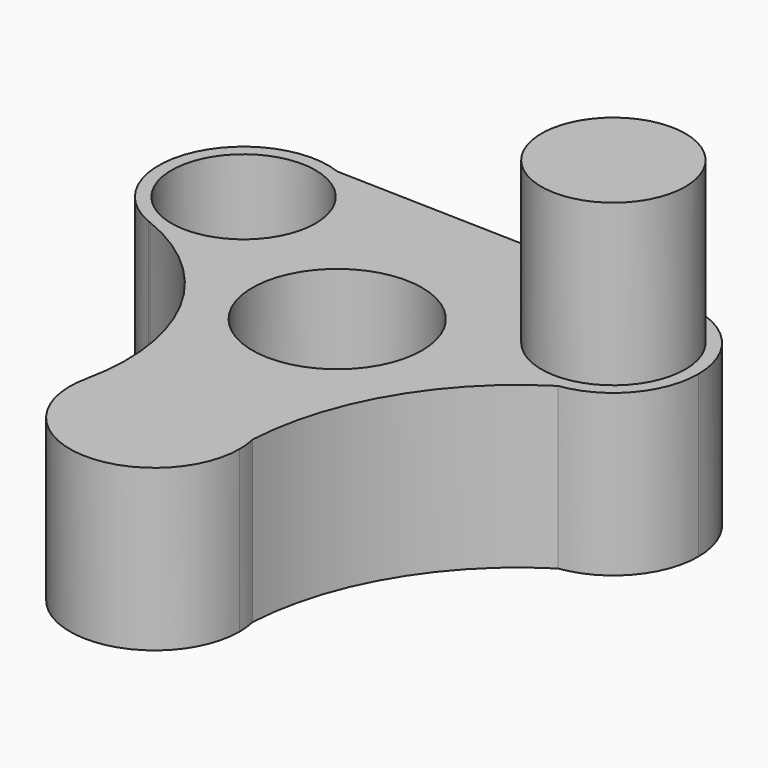
from build123d import *

# Parameters (mm, degrees)
F0_R     = 13.2
F0_R_2   = 11.2
F1_DEPTH = 25
F2_R     = 11.2
F3_DEPTH = 25


with BuildPart() as f1:
    # F0 (on Top) → F1 (new body)
    with BuildSketch(Plane.XY):
        with BuildLine():
            Line((26.826584, 28.880312), (-24.214508, 30.316139))
            ThreePointArc((-24.214508, 30.316139), (-41.233444, 22.879184), (-33.969145, 5.785839))
            ThreePointArc((-33.969145, 5.785839), (-33.782744, 5.713463), (-33.596794, 5.639934))
            ThreePointArc((-33.596794, 5.639934), (-17.041556, -9.200159), (-13.991435, -31.222898))
            ThreePointArc((-13.991435, -31.222898), (-1.154438, -20.887631), (11.758027, -31.128456))
            ThreePointArc((11.758027, -31.128456), (17.698981, -11.624185), (31.89381, 3.012015))
            ThreePointArc((31.89381, 3.012015), (17.119876, 13.548461), (26.826584, 28.880312))
        make_face()
        Circle(F0_R, mode=Mode.SUBTRACT)
        with Locations((-28.967666, 18.001616)):
            Circle(F0_R_2, mode=Mode.SUBTRACT)
        with BuildLine():
            ThreePointArc((-33.596794, 5.639934), (-33.782744, 5.713463), (-33.969145, 5.785839))
            ThreePointArc((-33.969145, 5.785839), (-33.783522, 5.711476), (-33.596794, 5.639934))
        make_face()
        with BuildLine():
            ThreePointArc((43.273689, 16.085926), (38.178571, 26.504703), (26.826584, 28.880312))
            ThreePointArc((26.826584, 28.880312), (17.119876, 13.548461), (31.89381, 3.012015))
            ThreePointArc((31.89381, 3.012015), (40.030235, 7.419485), (43.273689, 16.085926))
        make_face()
        with BuildLine():
            ThreePointArc((11.758027, -31.128456), (-1.154438, -20.887631), (-13.991435, -31.222898))
            ThreePointArc((-13.991435, -31.222898), (-2.546957, -47.208659), (12.093976, -34.087542))
            ThreePointArc((12.093976, -34.087542), (12.00972, -32.598494), (11.758027, -31.128456))
        make_face()
    extrude(amount=F1_DEPTH)

    # F2 (on face) → F3 (join)
    with BuildSketch(Plane.XY.offset(25)):
        with Locations((30.073689, 16.085926)):
            Circle(F2_R)
    extrude(amount=F3_DEPTH)


solid = f1.part
